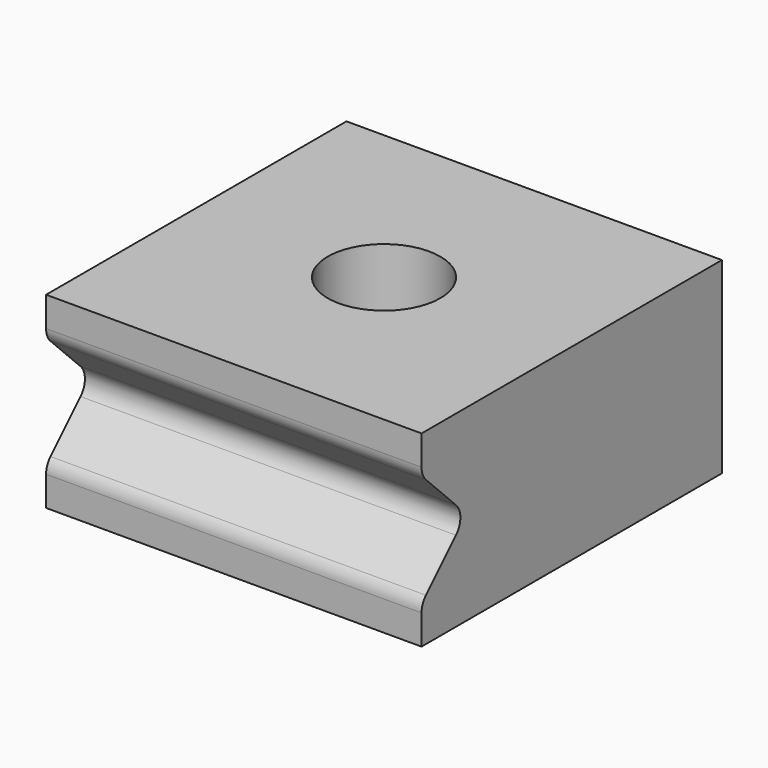
from build123d import *

# Parameters (mm, degrees)
F0_W     = 20
F0_H     = 20
F0_R     = 3
F1_DEPTH = 10
F3_DEPTH = 20
F4_R     = 1


with BuildPart() as f1:
    # F0 (on Top) → F1 (new body)
    with BuildSketch(Plane.XY):
        Rectangle(F0_W, F0_H)
        Circle(F0_R, mode=Mode.SUBTRACT)
    extrude(amount=F1_DEPTH)

    # F2 (on face) → F3 (cut, through all)
    with BuildSketch(Plane.YZ.offset(10)):
        Polygon((-7, 5), (-10, 8), (-10, 2), align=None)
    extrude(amount=-F3_DEPTH, mode=Mode.SUBTRACT)

    # F4
    f4_edges = [f1.edges().sort_by_distance(p)[0] for p in [
        (0, -7, 5),
        (0, -10, 8),
        (0, -10, 2),
    ]]
    fillet(f4_edges, radius=F4_R)


solid = f1.part
